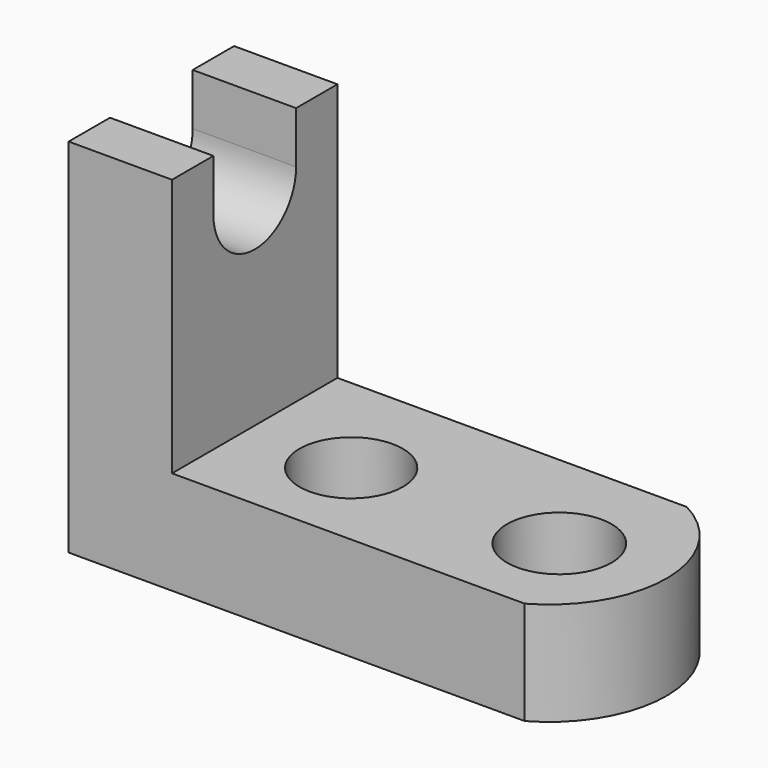
from build123d import *

# Parameters (mm, degrees)
F0_W     = 50.8
F0_H     = 12.7
F1_DEPTH = 25.4
F2_W     = 12.7
F2_H     = 6.35
F3_DEPTH = 25.4
F4_R     = 6.35
F4_R_2   = 6.420699
F5_DEPTH = 25.4


with BuildPart() as f1:
    # F0 (on Front) → F1 (new body)
    with BuildSketch(Plane.XZ):
        Polygon((-62.537882, 44.45), (-62.537882, 0), (-49.837882, 0), (-49.837882, 12.7), (-49.837882, 44.45), align=None)
        with Locations((-24.437882, 6.35)):
            Rectangle(F0_W, F0_H)
    extrude(amount=F1_DEPTH)

    # F2 (on face) → F3 (cut)
    with BuildSketch(Plane.YZ.offset(-49.837882)):
        with Locations((-12.7, 41.275)):
            Rectangle(F2_W, F2_H)
        with BuildLine():
            Line((-6.35, 38.1), (-19.05, 38.1))
            ThreePointArc((-19.05, 38.1), (-12.7, 31.75), (-6.35, 38.1))
        make_face()
    extrude(amount=-F3_DEPTH, mode=Mode.SUBTRACT)

    # F4 (on face) → F5 (cut)
    with BuildSketch(Plane.XY.offset(12.7)):
        with Locations((-37.137882, -13.766274)):
            Circle(F4_R)
        with Locations((-11.737882, -13.559262)):
            Circle(F4_R_2)
        with BuildLine():
            ThreePointArc((-6.927767, 0), (0.847206, -12.576641), (-6.513743, -25.4))
            Line((-6.513743, -25.4), (0.962118, -25.4))
            Line((0.962118, -25.4), (0.962118, 0))
            Line((0.962118, 0), (-6.927767, 0))
        make_face()
    extrude(amount=-F5_DEPTH, mode=Mode.SUBTRACT)


solid = f1.part
